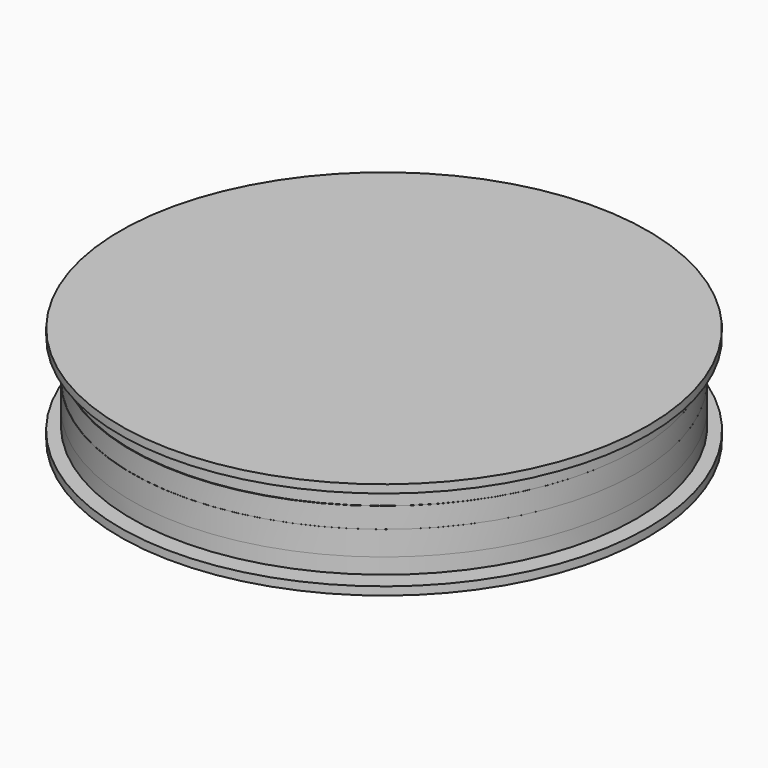
from build123d import *

# Parameters (mm, degrees)
F5_R      = 82.1190752283
F5_R_2    = 13.4047383933
F6_DEPTH  = 2.54
F7_R      = 13.8659514691
F8_DEPTH  = 25.4
F10_D     = 12.7
F10_DEPTH = 25.401
F11_R     = 5.8628907245
F12_DEPTH = 7.62
F9_R      = 82.0782185387
F13_DEPTH = 2.54


with BuildPart() as f1:
    # F0 (on Front) → F1 (revolve)
    with BuildSketch(Plane.XZ):
        with BuildLine():
            add(Edge.make_bspline(
                [(15.7515468455, 1.5186385906), (16.2569814963, 1.959361021), (17.2846288696, 2.8554358099), (18.9526439694, 4.166854506), (20.3713483355, 5.3705503671), (21.0733665388, 5.9114203979), (21.2399935025, 6.0371666258)],
                knots=[0, 0, 0, 0, 0.0363510009, 0.0739086854, 0.112559803, 0.1251067413, 0.1251067413, 0.1251067413, 0.1251067413], degree=3))
            Line((15.7515468455, 1.5186385906), (78.5365324529, 1.318038129))
            Line((78.5365324529, 1.318038129), (78.5365324529, 6.1707655311))
            Line((78.5365324529, 6.1707655311), (21.2399935025, 6.0371666258))
        make_face()
    revolve(axis=Axis((0, 0, 16.4799756994), (0, 0, 1)))


with BuildPart() as f2:
    # F0 (on Front) → F2 (revolve)
    with BuildSketch(Plane.XZ):
        with BuildLine():
            add(Edge.make_bspline(
                [(21.2399935025, 6.0371666258), (21.5009112116, 6.234070038), (22.1342698046, 6.6949997973), (23.1310298936, 7.396516823), (24.8194929191, 8.4575455522), (25.7576037559, 9.2164833794), (29.1454642161, 11.0654940256), (31.8957072977, 12.37057363), (33.6465721386, 13.3169859548), (34.5826536048, 13.7466102251)],
                knots=[0.1251067413, 0.1251067413, 0.1251067413, 0.1251067413, 0.1447537319, 0.1753550601, 0.2105716651, 0.239375986, 0.2887628656, 0.3347946409, 0.3782386594, 0.3782386594, 0.3782386594, 0.3782386594], degree=3))
            Line((21.2399935025, 6.0371666258), (78.5365324529, 6.1707655311))
            Line((78.5365324529, 6.1707655311), (78.5365324529, 13.7466102251))
            Line((78.5365324529, 13.7466102251), (34.5826536048, 13.7466102251))
        make_face()
    revolve(axis=Axis((0, 0, 16.4799756994), (0, 0, 1)))


with BuildPart() as f3:
    # F0 (on Front) → F3 (revolve)
    with BuildSketch(Plane.XZ):
        with BuildLine():
            add(Edge.make_bspline(
                [(34.5826536048, 13.7466102251), (34.606915689, 13.7577455596), (35.6814873865, 14.2488728005), (38.048823558, 15.143884105), (41.4594226373, 16.4985573287), (45.4508659579, 18.1028686828), (49.3448973071, 19.2429844364), (51.5891441877, 19.9139420623), (52.4998004667, 20.2101180306)],
                knots=[0.3782386594, 0.3782386594, 0.3782386594, 0.3782386594, 0.3793646751, 0.4279916519, 0.4771807945, 0.5302968437, 0.5840070306, 0.6225372943, 0.6225372943, 0.6225372943, 0.6225372943], degree=3))
            Line((34.5826536048, 13.7466102251), (78.5365324529, 13.7466102251))
            Line((78.5365324529, 13.7466102251), (78.5365324529, 20.2101180306))
            Line((78.5365324529, 20.2101180306), (52.4998004667, 20.2101180306))
        make_face()
    revolve(axis=Axis((0.0349167788, 0, 16.4799756994), (-0.0023317035, 0, 0.9999972816)))


with BuildPart() as f4:
    # F0 (on Front) → F4 (revolve)
    with BuildSketch(Plane.XZ):
        with BuildLine():
            add(Edge.make_bspline(
                [(52.4998004667, 20.2101180306), (52.7666258691, 20.2968986017), (54.1648589641, 20.7628246645), (56.603471745, 21.7101812772), (60.2482012651, 22.3407375348), (62.771290046, 23.2311631143), (66.3751725962, 23.8129712703), (70.133277328, 24.8132282159), (73.3957067914, 25.7248775779), (76.803780903, 26.2492134197), (78.0301706551, 26.1968164211), (78.5365324529, 26.1751823212)],
                knots=[0.6225372943, 0.6225372943, 0.6225372943, 0.6225372943, 0.6338267932, 0.6822117186, 0.7308995857, 0.7727704857, 0.8213286443, 0.8719649813, 0.9198306396, 0.966899021, 1, 1, 1, 1], degree=3))
            Line((52.4998004667, 20.2101180306), (78.5365324529, 20.2101180306))
            Line((78.5365324529, 20.2101180306), (78.5365324529, 26.1751823212))
        make_face()
    revolve(axis=Axis((0, 0, 16.4799756994), (0, 0, 1)))


with BuildPart() as f6:
    # F5 (on Top) → F6 (new body)
    with BuildSketch(Plane.XY):
        Circle(F5_R)
        Circle(F5_R_2, mode=Mode.SUBTRACT)
        Circle(F5_R_2)
    extrude(amount=-F6_DEPTH)

    # F7 (on Top) → F8 (join)
    with BuildSketch(Plane.XY):
        Circle(F7_R)
    extrude(amount=F8_DEPTH)

    # F10 (through all, one way)
    with BuildSketch(Plane(origin=(0, 0, 0), x_dir=(1, 0, 0), z_dir=(0, 0, -1))):
        with Locations((0, 0)):
            Circle(F10_D / 2)
    extrude(amount=-F10_DEPTH, mode=Mode.SUBTRACT)


with BuildPart() as f12:
    # F11 (on face) → F12 (new body)
    with BuildSketch(Plane.XY.offset(25.4)):
        Circle(F11_R)
    extrude(amount=-F12_DEPTH)

    # F9 (on face) → F13 (join)
    with BuildSketch(Plane.XY.offset(25.4)):
        Circle(F9_R)
    extrude(amount=F13_DEPTH)


solid = Compound([f1.part, f2.part, f3.part, f4.part, f6.part, f12.part])
